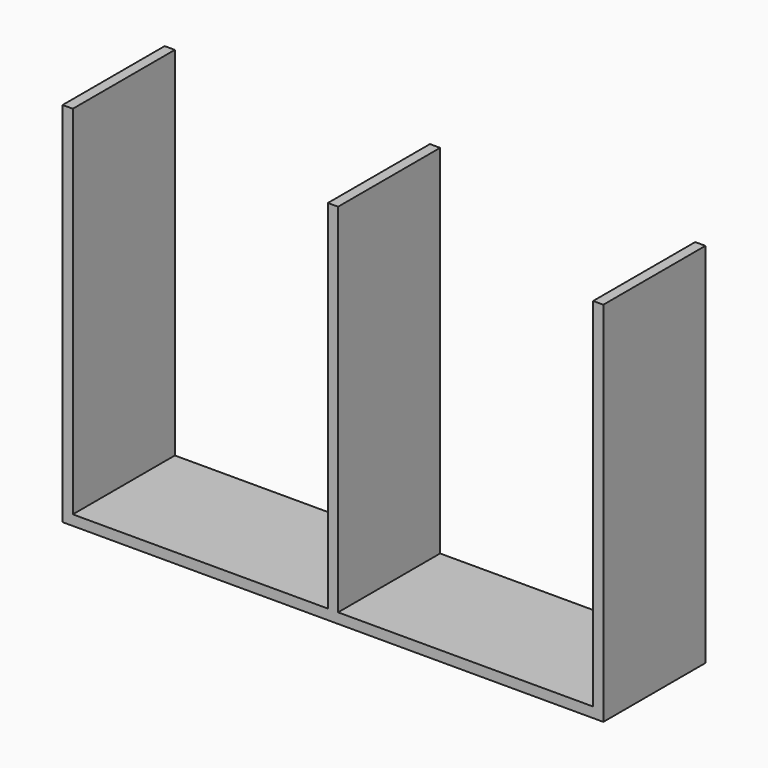
from build123d import *

# Parameters (mm, degrees)
F0_W     = 2
F0_H     = 70
F1_DEPTH = 25


with BuildPart() as f1:
    # F0 (on Front) → F1 (new body)
    with BuildSketch(Plane.XZ):
        Polygon((-127.978955, 72), (-127.978955, 0), (-21.978955, 0), (-21.978955, 2), (-23.978955, 2), (-73.978955, 2), (-73.978955, 72), (-75.978955, 72), (-75.978955, 2), (-125.978955, 2), (-125.978955, 72), align=None)
        with Locations((-22.978955, 37)):
            Rectangle(F0_W, F0_H)
    extrude(amount=F1_DEPTH)


solid = f1.part
